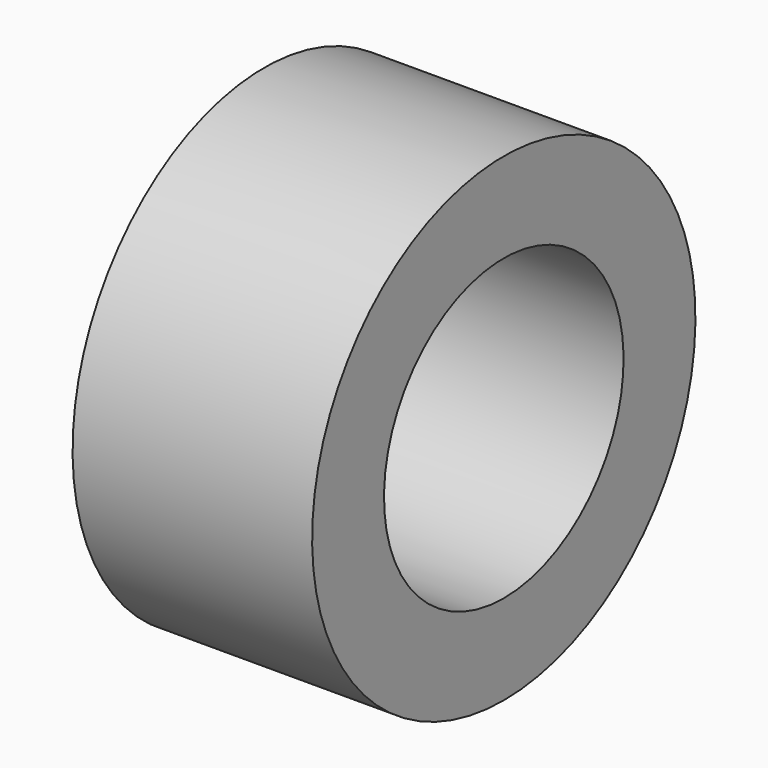
from build123d import *

# Parameters (mm, degrees)
CYLINDER018_R     = 2.5
CYLINDER018_DEPTH = 10
CYLINDER019_R     = 4
CYLINDER019_DEPTH = 4


with BuildPart() as cylinder006:
    # Cylinder018 → Cylinder018 (new body)
    with BuildSketch(Plane(origin=(23.5, -39, -22), x_dir=(0, 0, -1), z_dir=(1, 0, 0))):
        Circle(CYLINDER018_R)
    extrude(amount=CYLINDER018_DEPTH)


with BuildPart() as obj1:
    # Cylinder019 → Cylinder019 (new body)
    with BuildSketch(Plane(origin=(26.5, -39, -22), x_dir=(0, 0, -1), z_dir=(1, 0, 0))):
        Circle(CYLINDER019_R)
    extrude(amount=CYLINDER019_DEPTH)

    # Cut010: cut Cylinder006
    add(cylinder006.part, mode=Mode.SUBTRACT)


with BuildPart() as obj1_1:
    # Cut010 placement: moved
    add(obj1.part.moved(Location((49.5, 0, 2.5))))


solid = obj1_1.part
